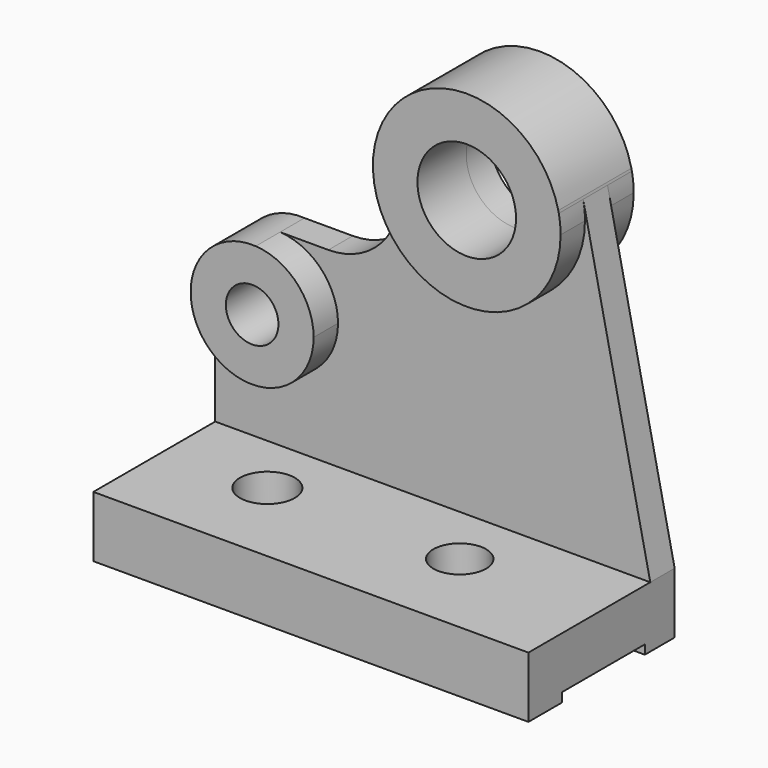
from build123d import *

# Parameters (mm, degrees)
F0_W     = 71.4039057493
F0_H     = 10.0156413391
F1_DEPTH = 30
F0_R     = 8.092251343
F2_DEPTH = 5
F3_DEPTH = 10
F4_DEPTH = 5
F0_R_2   = 4.3157059511
F5_DEPTH = 10
F6_R     = 4.4956600343
F6_R_2   = 4.3279910203
F7_DEPTH = 10
F8_W     = 17
F8_H     = 1.5
F9_DEPTH = 75


with BuildPart() as f1:
    # F0 (on Front) → F1 (new body)
    with BuildSketch(Plane.XZ):
        with Locations((0.439170748, 5.0078206696)):
            Rectangle(F0_W, F0_H)
    extrude(amount=F1_DEPTH)

    # F0 (on Front) → F2 (join)
    with BuildSketch(Plane.XZ):
        with BuildLine():
            Line((-35.2627821267, 29.9515907848), (-35.2627821267, 10.0156413391))
            Line((-35.2627821267, 10.0156413391), (36.1411236227, 10.0156413391))
            Line((36.1411236227, 10.0156413391), (25.1246013402, 61.7686041355))
            ThreePointArc((25.1246013402, 61.7686041355), (25.3473044426, 60.2704616159), (25.4217788934, 58.7576889175))
            ThreePointArc((25.4217788934, 58.7576889175), (10.3364695976, 43.3594929937), (-5.3681246936, 58.1255592406))
            Line((-5.3681246936, 58.1255592406), (-5.3681246936, 49.4371242821))
            ThreePointArc((-5.3681246936, 49.4371242821), (-9.5873943676, 43.2392770116), (-16.6941146135, 40.8497007485))
            Line((-16.6941146135, 40.8497007485), (-24.6158130271, 40.8497007485))
            ThreePointArc((-24.6158130271, 40.8497007485), (-17.8608958869, 37.6998341235), (-15.1091185063, 30.7731981021))
            ThreePointArc((-15.1091185063, 30.7731981021), (-24.791552722, 20.6879961222), (-35.2627821267, 29.9515907848))
        make_face()
        with BuildLine():
            ThreePointArc((25.4217788934, 58.7576889175), (25.3473044426, 60.2704616159), (25.1246013402, 61.7686041355))
            Line((25.1246013402, 61.7686041355), (25.041397661, 62.1594749391))
            ThreePointArc((25.041397661, 62.1594749391), (7.9950319394, 74.0253839474), (-5.3681246936, 58.1255592406))
            ThreePointArc((-5.3681246936, 58.1255592406), (10.3364695976, 43.3594929937), (25.4217788934, 58.7576889175))
        make_face()
        with Locations((10.0203381558, 58.7576889175)):
            Circle(F0_R, mode=Mode.SUBTRACT)
    extrude(amount=F2_DEPTH)

    # F0 (on Front) → F3 (join)
    with BuildSketch(Plane.XZ):
        with BuildLine():
            ThreePointArc((25.4217788934, 58.7576889175), (25.3473044426, 60.2704616159), (25.1246013402, 61.7686041355))
            Line((25.1246013402, 61.7686041355), (25.041397661, 62.1594749391))
            ThreePointArc((25.041397661, 62.1594749391), (7.9950319394, 74.0253839474), (-5.3681246936, 58.1255592406))
            ThreePointArc((-5.3681246936, 58.1255592406), (10.3364695976, 43.3594929937), (25.4217788934, 58.7576889175))
        make_face()
        with Locations((10.0203381558, 58.7576889175)):
            Circle(F0_R, mode=Mode.SUBTRACT)
    extrude(amount=F3_DEPTH)

    # F0 (on Front) → F4 (join)
    with BuildSketch(Plane.XZ):
        with BuildLine():
            ThreePointArc((25.4217788934, 58.7576889175), (25.3473044426, 60.2704616159), (25.1246013402, 61.7686041355))
            Line((25.1246013402, 61.7686041355), (25.041397661, 62.1594749391))
            ThreePointArc((25.041397661, 62.1594749391), (7.9950319394, 74.0253839474), (-5.3681246936, 58.1255592406))
            ThreePointArc((-5.3681246936, 58.1255592406), (10.3364695976, 43.3594929937), (25.4217788934, 58.7576889175))
        make_face()
        with Locations((10.0203381558, 58.7576889175)):
            Circle(F0_R, mode=Mode.SUBTRACT)
    extrude(amount=-F4_DEPTH)

    # F0 (on Front) → F5 (join)
    with BuildSketch(Plane.XZ):
        with BuildLine():
            Line((-35.2627821267, 31.5948054194), (-35.2627821267, 29.9515907848))
            ThreePointArc((-35.2627821267, 29.9515907848), (-24.791552722, 20.6879961222), (-15.1091185063, 30.7731981021))
            ThreePointArc((-15.1091185063, 30.7731981021), (-17.8608958869, 37.6998341235), (-24.6158130271, 40.8497007485))
            ThreePointArc((-24.6158130271, 40.8497007485), (-31.8245290129, 38.3910513396), (-35.2627821267, 31.5948054194))
        make_face()
        with Locations((-25.2026976086, 30.7731981021)):
            Circle(F0_R_2, mode=Mode.SUBTRACT)
    extrude(amount=F5_DEPTH)

    # F6 (on face) → F7 (cut)
    with BuildSketch(Plane.XY.offset(10.0156413391)):
        with Locations((-18.5435730964, -15.1974710822)):
            Circle(F6_R)
        with Locations((13.0291003734, -15.1974710822)):
            Circle(F6_R_2)
    extrude(amount=-F7_DEPTH, mode=Mode.SUBTRACT)

    # F8 (on face) → F9 (cut)
    with BuildSketch(Plane.YZ.offset(36.1411236227)):
        with Locations((-14.618397221, 0.75)):
            Rectangle(F8_W, F8_H)
    extrude(amount=-F9_DEPTH, mode=Mode.SUBTRACT)


solid = f1.part
